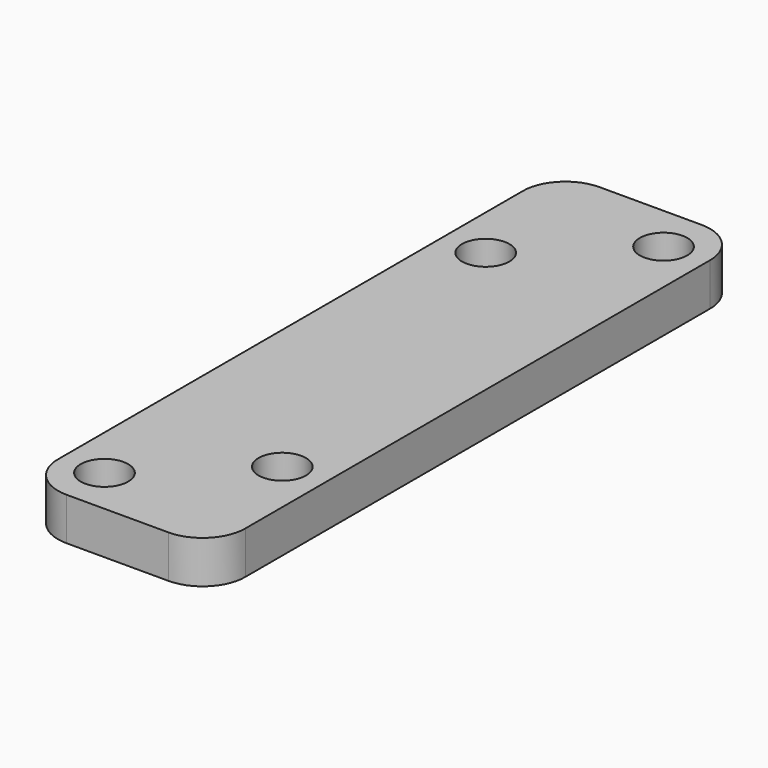
from build123d import *

# Parameters (mm, degrees)
F1_DEPTH = 9
F2_R     = 5
F3_DEPTH = 9.001


with BuildPart() as f1:
    # F0 (on Top) → F1 (new body)
    with BuildSketch(Plane.XY):
        with BuildLine():
            Line((10.75, 70.25), (-10.75, 70.25))
            ThreePointArc((-10.75, 70.25), (-17.113961, 67.613961), (-19.75, 61.25))
            Line((-19.75, 61.25), (-19.75, -61.25))
            ThreePointArc((-19.75, -61.25), (-17.113961, -67.613961), (-10.75, -70.25))
            Line((-10.75, -70.25), (10.75, -70.25))
            ThreePointArc((10.75, -70.25), (17.113961, -67.613961), (19.75, -61.25))
            Line((19.75, -61.25), (19.75, 61.25))
            ThreePointArc((19.75, 61.25), (17.113961, 67.613961), (10.75, 70.25))
        make_face()
    extrude(amount=F1_DEPTH)

    # F2 (on face) → F3 (cut, through all)
    with BuildSketch(Plane.XY.offset(9)):
        with Locations((10.75, 60.25)):
            Circle(F2_R)
        with Locations((-10.75, 40.25)):
            Circle(F2_R)
        with Locations((10.75, -40.25)):
            Circle(F2_R)
        with Locations((-10.75, -60.25)):
            Circle(F2_R)
    extrude(amount=-F3_DEPTH, mode=Mode.SUBTRACT)


solid = f1.part
